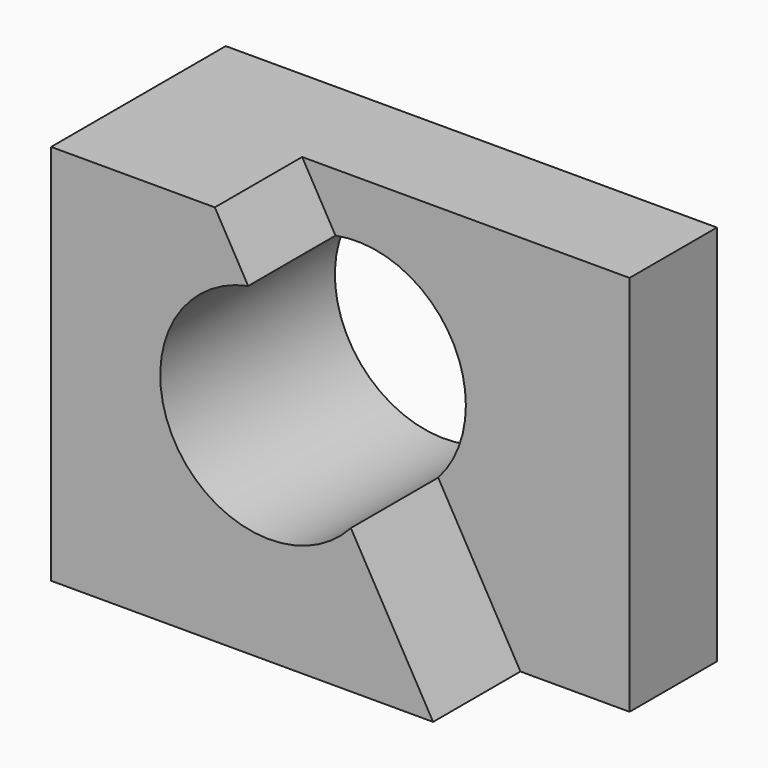
from build123d import *

# Parameters (mm, degrees)
F0_W     = 57.15
F0_H     = 44.45
F1_DEPTH = 25.4
F3_DEPTH = 50.8
F5_DEPTH = 12.7


with BuildPart() as f1:
    # F0 (on Front) → F1 (new body)
    with BuildSketch(Plane.XZ):
        with Locations((28.575, 22.225)):
            Rectangle(F0_W, F0_H)
    extrude(amount=-F1_DEPTH)

    # F2 (on face) → F3 (cut)
    with BuildSketch(Plane.XZ):
        with BuildLine():
            ThreePointArc((34.8792097013, 16.7488830228), (37.2675179209, 20.6783904546), (38.1, 25.2007812379))
            ThreePointArc((38.1, 25.2007812379), (33.4601568868, 35.0152537637), (22.930886463, 37.6584486898))
            Line((22.930886463, 37.6584486898), (34.8792097013, 16.7488830228))
        make_face()
        with BuildLine():
            Line((34.8792097013, 16.7488830228), (22.930886463, 37.6584486898))
            ThreePointArc((22.930886463, 37.6584486898), (14.373312095, 18.8998167208), (34.8792097013, 16.7488830228))
        make_face()
    extrude(amount=-F3_DEPTH, mode=Mode.SUBTRACT)

    # F4 (on face) → F5 (cut)
    with BuildSketch(Plane.XZ):
        with BuildLine():
            Line((57.15, 44.45), (19.05, 44.45))
            Line((19.05, 44.45), (22.930886463, 37.6584486898))
            ThreePointArc((22.930886463, 37.6584486898), (33.4601568868, 35.0152537637), (38.1, 25.2007812379))
            ThreePointArc((38.1, 25.2007812379), (37.2675179209, 20.6783904546), (34.8792097013, 16.7488830228))
            Line((34.8792097013, 16.7488830228), (44.45, 0))
            Line((44.45, 0), (57.15, 0))
            Line((57.15, 0), (57.15, 44.45))
        make_face()
    extrude(amount=-F5_DEPTH, mode=Mode.SUBTRACT)


solid = f1.part
